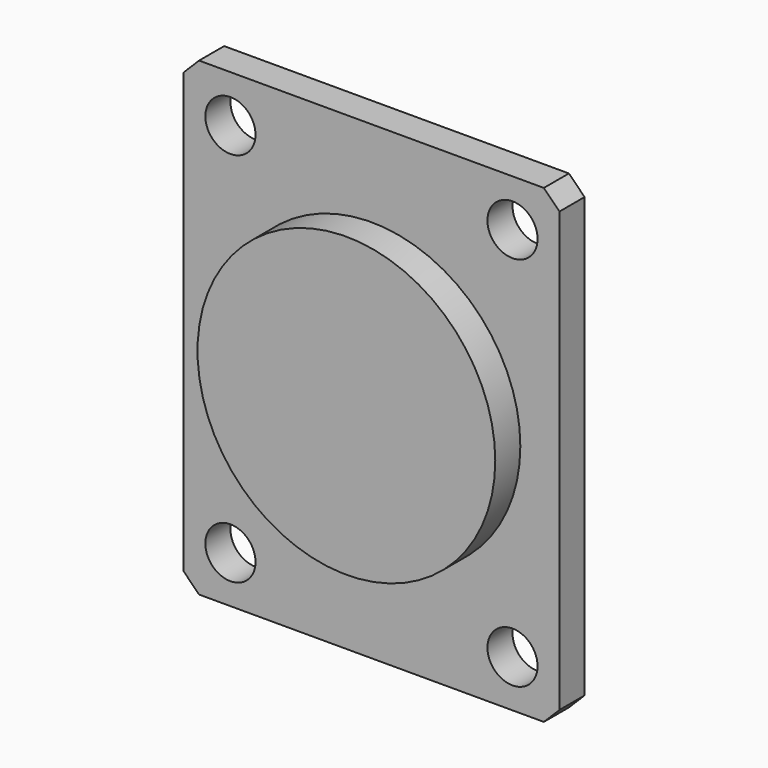
from build123d import *

# Parameters (mm, degrees)
F0_R      = 47.5
F0_R_2    = 35
F1_DEPTH  = 20
F0_W      = 120
F0_H      = 150
F0_R_3    = 8
F2_DEPTH  = 10
F2_FACE_R = 35
F3_DEPTH  = 10
F4_SIZE   = 5


with BuildPart() as f1:
    # F0 (on Front) → F1 (new body)
    with BuildSketch(Plane.XZ):
        Circle(F0_R)
        Circle(F0_R_2, mode=Mode.SUBTRACT)
    extrude(amount=F1_DEPTH)

    # F0 (on Front) → F2 (join)
    with BuildSketch(Plane.XZ):
        Rectangle(F0_W, F0_H)
        with Locations((-45, -60)):
            Circle(F0_R_3, mode=Mode.SUBTRACT)
        with Locations((45, -60)):
            Circle(F0_R_3, mode=Mode.SUBTRACT)
        with Locations((-45, 60)):
            Circle(F0_R_3, mode=Mode.SUBTRACT)
        Circle(F0_R, mode=Mode.SUBTRACT)
        with Locations((45, 60)):
            Circle(F0_R_3, mode=Mode.SUBTRACT)
        Circle(F0_R_2)
    extrude(amount=F2_DEPTH)

    # F2_face (on face) → F3 (join)
    with BuildSketch(Plane.XZ.offset(10)):
        Circle(F2_FACE_R)
    extrude(amount=F3_DEPTH)

    # F4
    f4_edges = [f1.edges().sort_by_distance(p)[0] for p in [
        (-60, -5, 75),
        (60, -5, 75),
        (60, -5, -75),
        (-60, -5, -75),
    ]]
    chamfer(f4_edges, length=F4_SIZE)


solid = f1.part
